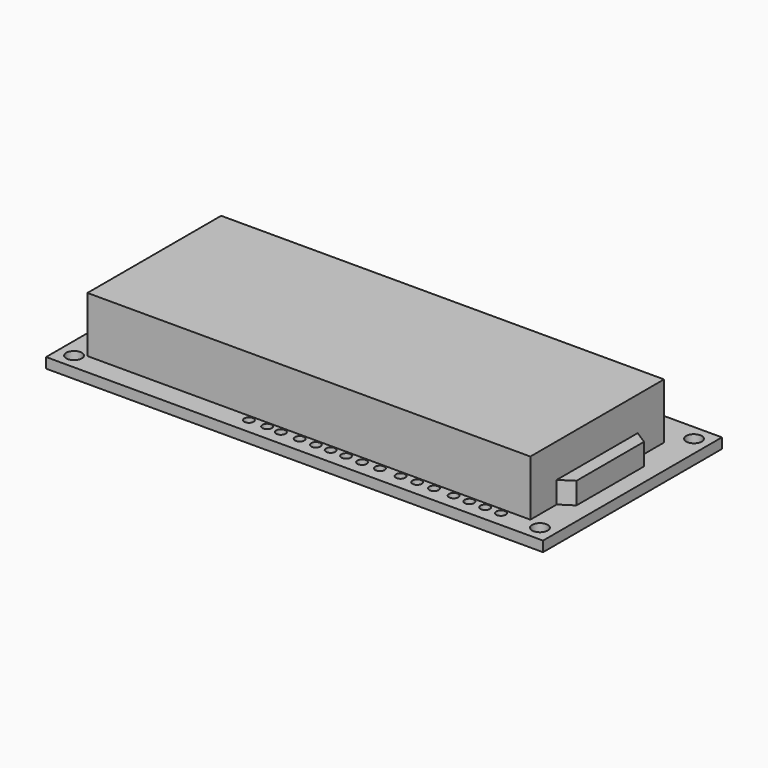
from build123d import *

# Parameters (mm, degrees)
PAD010002001008_DEPTH     = 5.14
SKETCH015_W               = 71.3
SKETCH015_H               = 26.9
PAD010002001007_DEPTH     = 10.6
SKETCH014_W               = 80
SKETCH014_H               = 36
SKETCH014_R               = 1.25
SKETCH014_R_2             = 0.75
PAD010002001006_DEPTH     = 1.65
FUSION006_PLACEMENT_ANGLE = 180


with BuildPart() as displayinsert:
    # Sketch016 → Pad010002001008 (new body)
    with BuildSketch(Plane(origin=(4.5, 1.1, 0), x_dir=(1, 0, 0), z_dir=(0, 0, 1))):
        Polygon((31.5, 13.45), (-31.5, 13.45), (-41.8, 6.8), (-41.8, -6.8), (-31.5, -13.45), (31.5, -13.45), (31.5, -9.1), (32.4, -9.1), (32.4, 9.1), (31.5, 9.1), align=None)
    extrude(amount=PAD010002001008_DEPTH)


with BuildPart() as displaybody:
    # Sketch015 → Pad010002001007 (new body)
    with BuildSketch(Plane(origin=(0.45, 1.1, 0), x_dir=(1, 0, 0), z_dir=(0, 0, 1))):
        Rectangle(SKETCH015_W, SKETCH015_H)
    extrude(amount=PAD010002001007_DEPTH)


with BuildPart() as display:
    # Sketch014 → Pad010002001006 (new body)
    with BuildSketch(Plane.XY):
        Rectangle(SKETCH014_W, SKETCH014_H)
        with Locations((-37.5, 15.5)):
            Circle(SKETCH014_R, mode=Mode.SUBTRACT)
        with Locations((-37.5, -15.5)):
            Circle(SKETCH014_R, mode=Mode.SUBTRACT)
        with Locations((37.5, -15.5)):
            Circle(SKETCH014_R, mode=Mode.SUBTRACT)
        with Locations((37.5, 15.5)):
            Circle(SKETCH014_R, mode=Mode.SUBTRACT)
        with Locations((-31.197892, 15.46)):
            Circle(SKETCH014_R_2, mode=Mode.SUBTRACT)
        with Locations((-28.657892, 15.46)):
            Circle(SKETCH014_R_2, mode=Mode.SUBTRACT)
        with Locations((-26.117892, 15.46)):
            Circle(SKETCH014_R_2, mode=Mode.SUBTRACT)
        with Locations((-23.577892, 15.46)):
            Circle(SKETCH014_R_2, mode=Mode.SUBTRACT)
        with Locations((-20.413733, 15.46)):
            Circle(SKETCH014_R_2, mode=Mode.SUBTRACT)
        with Locations((-17.707897, 15.46)):
            Circle(SKETCH014_R_2, mode=Mode.SUBTRACT)
        with Locations((-15.036319, 15.46)):
            Circle(SKETCH014_R_2, mode=Mode.SUBTRACT)
        with Locations((-11.713964, 15.46)):
            Circle(SKETCH014_R_2, mode=Mode.SUBTRACT)
        with Locations((-8.905379, 15.540887)):
            Circle(SKETCH014_R_2, mode=Mode.SUBTRACT)
        with Locations((-6.268049, 15.472383)):
            Circle(SKETCH014_R_2, mode=Mode.SUBTRACT)
        with Locations((-3.767722, 15.438133)):
            Circle(SKETCH014_R_2, mode=Mode.SUBTRACT)
        with Locations((-1.4044, 15.472383)):
            Circle(SKETCH014_R_2, mode=Mode.SUBTRACT)
        with Locations((1.198681, 15.472383)):
            Circle(SKETCH014_R_2, mode=Mode.SUBTRACT)
        with Locations((4.189797, 15.510243)):
            Circle(SKETCH014_R_2, mode=Mode.SUBTRACT)
        with Locations((6.484617, 15.407489)):
            Circle(SKETCH014_R_2, mode=Mode.SUBTRACT)
        with Locations((9.361704, 15.47599)):
            Circle(SKETCH014_R_2, mode=Mode.SUBTRACT)
    extrude(amount=PAD010002001006_DEPTH)

    # Fusion005: union DisplayBody
    add(displaybody.part)

    # Fusion006: union DisplayInsert
    add(displayinsert.part)


with BuildPart() as display_1:
    # Fusion006 placement: moved
    add(display.part.moved(Location((0, -7, 44))).rotate(Axis((0, -7, 44), (0, 0, 1)), FUSION006_PLACEMENT_ANGLE))


solid = display_1.part
